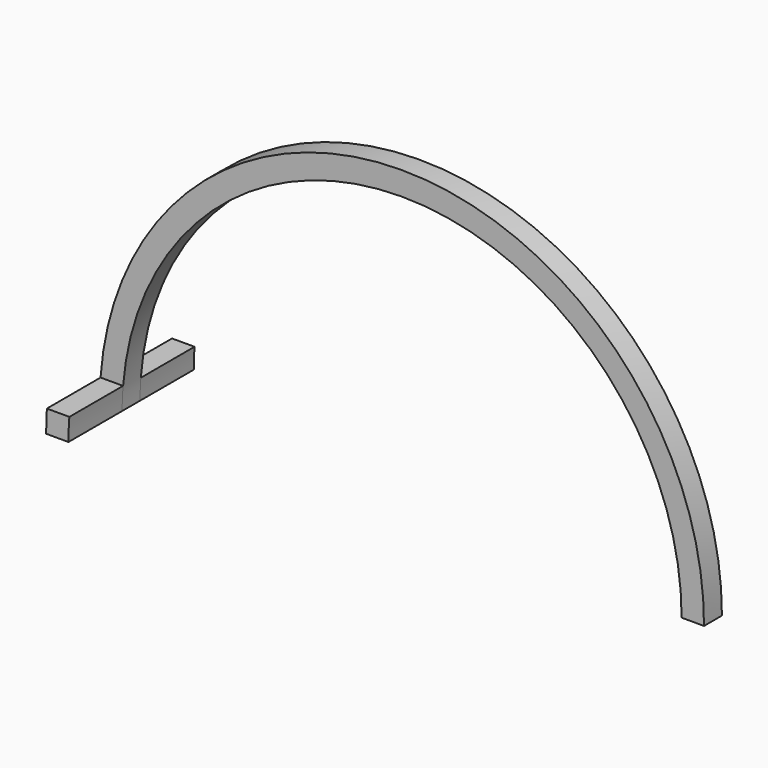
from build123d import *

# Parameters (mm, degrees)
F1_DEPTH = 6.35
F3_DEPTH = 19.05
F5_DEPTH = 19.05


with BuildPart() as f1:
    # F0 (on Front) → F1 (new body)
    with BuildSketch(Plane.XZ):
        with BuildLine():
            ThreePointArc((-70.237749294, 0), (9.137250706, 79.375), (88.512250706, 0))
            Line((88.512250706, 0), (94.862250706, 0))
            ThreePointArc((94.862250706, 0), (9.137250706, 86.0083166132), (-76.587749294, 0))
            Line((-76.587749294, 0), (-70.237749294, 0))
        make_face()
    extrude(amount=F1_DEPTH)

    # F2 (on face) → F3 (join)
    with BuildSketch(Plane.XZ.offset(6.35)):
        with BuildLine():
            Line((-76.587749294, 0), (-70.237749294, 0))
            ThreePointArc((-70.237749294, 0), (-70.1737860692, 3.1859175505), (-69.9819994827, 6.3667004474))
            Line((-69.9819994827, 6.3667004474), (-76.3720610245, 6.3667004474))
            Line((-76.3720610245, 6.3667004474), (-76.587749294, 0))
        make_face()
    extrude(amount=F3_DEPTH)

    # F4 (on face) → F5 (join)
    with BuildSketch(Plane(origin=(0, 0, 0), x_dir=(-1, 0, 0), z_dir=(0, 1, 0))):
        with BuildLine():
            ThreePointArc((70.0255849548, 5.7996616405), (70.1846904754, 2.9017705307), (70.237749294, 0))
            Line((70.237749294, 0), (76.587749294, 0))
            Line((76.587749294, 0), (76.4105161745, 5.7996616405))
            Line((76.4105161745, 5.7996616405), (70.0255849548, 5.7996616405))
        make_face()
    extrude(amount=F5_DEPTH)


solid = f1.part
